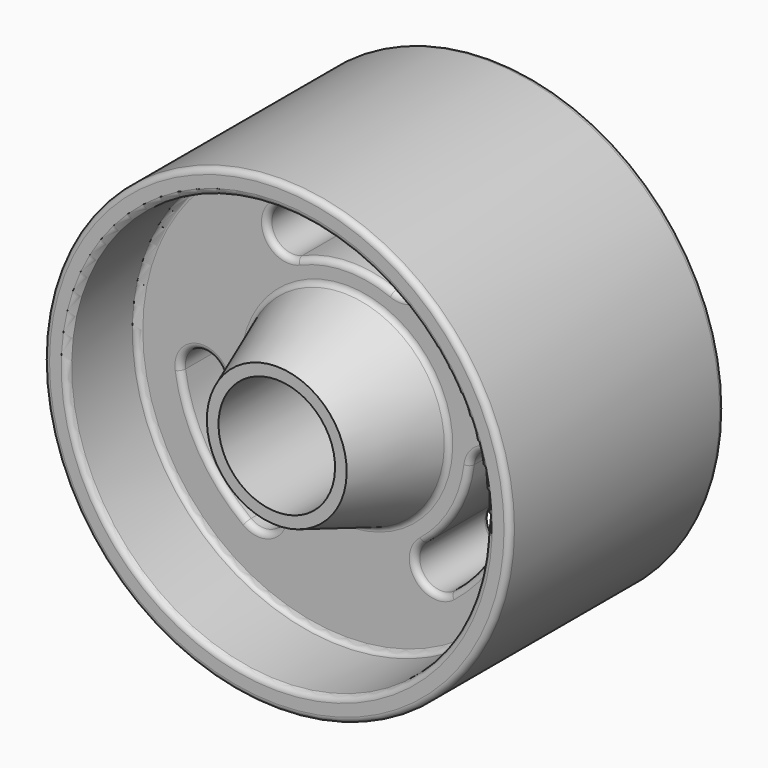
from build123d import *

# Parameters (mm, degrees)
F3_DEPTH = 62.001
F4_R     = 2
F5_R     = 2


with BuildPart() as f1:
    # F0 (on Right) → F1 (revolve)
    with BuildSketch(Plane.YZ):
        Polygon((0, 24), (0, 20), (92, 20), (92, 24), (62, 35), (62, 72), (92, 72), (92, 80), (0, 80), (0, 72), (30, 72), (30, 35), align=None)
    revolve(axis=Axis((0, 51.2057207525, 0), (0, 1, 0)))

    # F2 (on face) → F3 (cut, through all)
    with BuildSketch(Plane.XZ.offset(-30)):
        with BuildLine():
            ThreePointArc((-22.7281083285, 52.8174506372), (-15.6394977593, 52.1925625116), (-12.2635720946, 45.9282181024))
            ThreePointArc((-12.2635720946, 45.9282181024), (-13.4992280146, 41.8041432671), (-16.7990369604, 39.0389850944))
            ThreePointArc((-16.7990369604, 39.0389850944), (-0.5807132102, 42.4960324285), (15.7260188662, 39.4834437533))
            ThreePointArc((15.7260188662, 39.4834437533), (11.5335319328, 49.2262897601), (21.2763777532, 53.4187771266))
            ThreePointArc((21.2763777532, 53.4187771266), (-0.7856709251, 57.4946321077), (-22.7281083285, 52.8174506372))
        make_face()
        with BuildLine():
            ThreePointArc((26.0011986194, 46.4511103166), (24.7086072375, 50.6603950834), (21.2763777532, 53.4187771266))
            ThreePointArc((21.2763777532, 53.4187771266), (11.5335319328, 49.2262897601), (15.7260188662, 39.4834437533))
            ThreePointArc((15.7260188662, 39.4834437533), (22.7104831103, 40.2437015114), (26.0011986194, 46.4511103166))
        make_face()
        with BuildLine():
            ThreePointArc((-16.7990369604, 39.0389850944), (-13.4992280146, 41.8041432671), (-12.2635720946, 45.9282181024))
            ThreePointArc((-12.2635720946, 45.9282181024), (-15.6394977593, 52.1925625116), (-22.7281083285, 52.8174506372))
            ThreePointArc((-22.7281083285, 52.8174506372), (-26.652804866, 42.9636824183), (-16.7990369604, 39.0389850944))
        make_face()
        with BuildLine():
            ThreePointArc((-41.9784408779, -7.2030471534), (-48.9367981893, -14.683463131), (-56.900207064, -8.2835038525))
            ThreePointArc((-56.900207064, -8.2835038525), (-49.398976813, -29.4277265488), (-34.3771998845, -46.0918444858))
            ThreePointArc((-34.3771998845, -46.0918444858), (-35.9051974615, -35.5958821838), (-25.4092351426, -34.0678847225))
            ThreePointArc((-25.4092351426, -34.0678847225), (-36.5122872112, -21.7509283159), (-42.0566747073, -6.1225903476))
            ThreePointArc((-42.0566747073, -6.1225903476), (-41.9980249042, -6.6614044111), (-41.9784408779, -7.2030471534))
        make_face()
        with BuildLine():
            ThreePointArc((-25.4092351426, -34.0678847225), (-35.9051974615, -35.5958821838), (-34.3771998845, -46.0918444858))
            ThreePointArc((-34.3771998845, -46.0918444858), (-26.53017337, -46.7835899102), (-22.3932175799, -40.0798645547))
            ThreePointArc((-22.3932175799, -40.0798645547), (-23.1894921873, -36.7168204187), (-25.4092351426, -34.0678847225))
        make_face()
        with BuildLine():
            ThreePointArc((-42.0566747073, -6.1225903476), (-50.5588976303, 0.2187190249), (-56.900207064, -8.2835038525))
            ThreePointArc((-56.900207064, -8.2835038525), (-48.9367981893, -14.683463131), (-41.9784408779, -7.2030471534))
            ThreePointArc((-41.9784408779, -7.2030471534), (-41.9980249042, -6.6614044111), (-42.0566747073, -6.1225903476))
        make_face()
        with BuildLine():
            ThreePointArc((35.623828529, -45.1352726915), (50.1846471988, -28.0669055212), (57.1053081524, -6.7256063536))
            ThreePointArc((57.1053081524, -6.7256063536), (48.7795370883, -13.2968720514), (42.208271145, -4.9711011812))
            ThreePointArc((42.208271145, -4.9711011812), (37.0929998191, -20.7451045893), (26.330655613, -33.3608539308))
            ThreePointArc((26.330655613, -33.3608539308), (34.2483735734, -32.4990113838), (38.4772422585, -39.2480631632))
            ThreePointArc((38.4772422585, -39.2480631632), (37.7262939337, -42.519194693), (35.623828529, -45.1352726915))
        make_face()
        with BuildLine():
            ThreePointArc((42.208271145, -4.9711011812), (48.7795370883, -13.2968720514), (57.1053081524, -6.7256063536))
            ThreePointArc((57.1053081524, -6.7256063536), (57.1439082319, -6.2877345989), (57.1567896745, -5.8483535477))
            ThreePointArc((57.1567896745, -5.8483535477), (50.0961705049, 1.6387650226), (42.208271145, -4.9711011812))
        make_face()
        with BuildLine():
            ThreePointArc((26.330655613, -33.3608539308), (25.0900328781, -43.8946496212), (35.623828529, -45.1352726915))
            ThreePointArc((35.623828529, -45.1352726915), (37.7262939337, -42.519194693), (38.4772422585, -39.2480631632))
            ThreePointArc((38.4772422585, -39.2480631632), (34.2483735734, -32.4990113838), (26.330655613, -33.3608539308))
        make_face()
    extrude(amount=-F3_DEPTH, mode=Mode.SUBTRACT)

    # F4
    f4_edges = [f1.edges().sort_by_distance(p)[0] for p in [
        (0, 0, -80),
        (0, 0, -72),
        (0, 30, -35),
        (25.468865, 30, 43.675931),
        (-0.580713, 30, 42.496032),
        (-26.652805, 30, 42.963682),
        (-0.785671, 30, 57.494632),
        (50.534042, 30, 1.600165),
        (50.184647, 30, -28.066906),
        (37.093, 30, -20.745105),
        (25.090033, 30, -43.89465),
        (-36.512287, 30, -21.750928),
        (-23.881238, 30, -44.563847),
        (-49.398977, 30, -29.427727),
        (-50.558898, 30, 0.218719),
        (0, 92, -80),
        (0, 92, -72),
        (-0.785671, 62, 57.494632),
        (-26.652805, 62, 42.963682),
        (25.468865, 62, 43.675931),
        (-0.580713, 62, 42.496032),
        (0, 62, -35),
        (-49.398977, 62, -29.427727),
        (-50.558898, 62, 0.218719),
        (-23.881238, 62, -44.563847),
        (-36.512287, 62, -21.750928),
        (25.090033, 62, -43.89465),
        (50.184647, 62, -28.066906),
        (50.534042, 62, 1.600165),
        (37.093, 62, -20.745105),
    ]]
    fillet(f4_edges, radius=F4_R)

    # F5
    f5_edges = [f1.edges().sort_by_distance(p)[0] for p in [
        (0, 30, -72),
        (0, 62, -72),
    ]]
    fillet(f5_edges, radius=F5_R)


solid = f1.part
